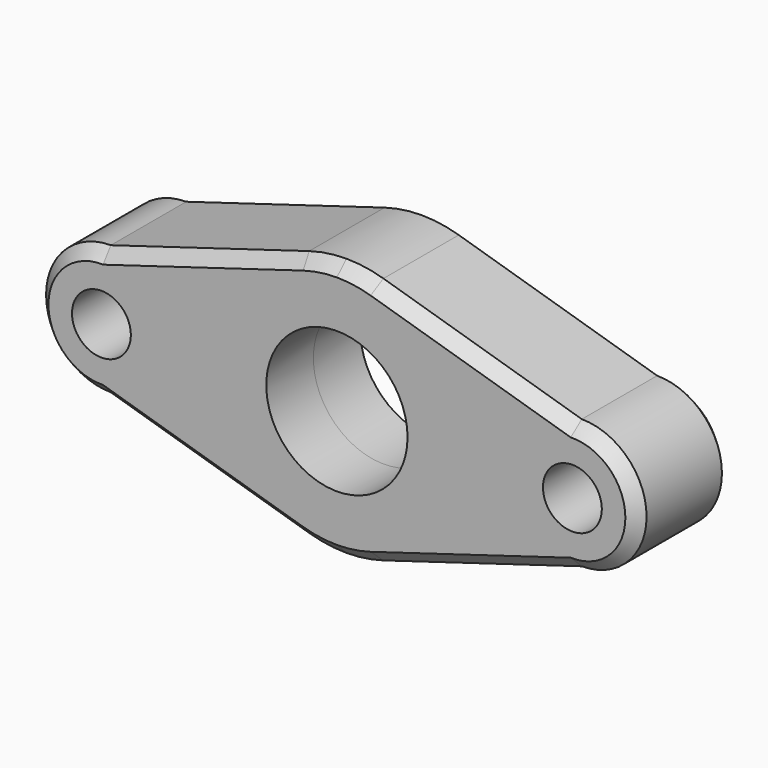
from build123d import *

# Parameters (mm, degrees)
F0_R     = 2.5
F0_R_2   = 6
F1_DEPTH = 5
F2_SIZE  = 1


with BuildPart() as f1:
    # F0 (on Front) → F1 (new body, symmetric)
    with BuildSketch(Plane.XZ):
        with BuildLine():
            ThreePointArc((20, -5.5), (25.5, 0), (20, 5.5))
            Line((20, 5.5), (3.151835, 10.538783))
            ThreePointArc((3.151835, 10.538783), (1.592701, 10.884085), (0, 11))
            ThreePointArc((0, 11), (-1.592701, 10.884085), (-3.151835, 10.538783))
            Line((-3.151835, 10.538783), (-20, 5.5))
            ThreePointArc((-20, 5.5), (-25.5, 0), (-20, -5.5))
            Line((-20, -5.5), (-3.151835, -10.538783))
            ThreePointArc((-3.151835, -10.538783), (-1.592701, -10.884085), (0, -11))
            ThreePointArc((0, -11), (1.592701, -10.884085), (3.151835, -10.538783))
            Line((3.151835, -10.538783), (20, -5.5))
        make_face()
        with Locations((-20, 0)):
            Circle(F0_R, mode=Mode.SUBTRACT)
        Circle(F0_R_2, mode=Mode.SUBTRACT)
        with Locations((20, 0)):
            Circle(F0_R, mode=Mode.SUBTRACT)
    extrude(amount=F1_DEPTH, both=True)

    # F2
    f2_edges = [f1.edges().sort_by_distance(p)[0] for p in [
        (-11.575917, -5, 8.019391),
        (25.5, -5, 0),
        (11.575917, -5, 8.019391),
        (1.592701, -5, 10.884085),
        (-1.592701, -5, 10.884085),
        (11.575917, -5, -8.019391),
        (-25.5, -5, 0),
        (-25.5, 5, 0),
        (25.5, 5, 0),
        (11.575917, 5, 8.019391),
        (-11.575917, 5, 8.019391),
        (-11.575917, 5, -8.019391),
        (11.575917, 5, -8.019391),
    ]]
    chamfer(f2_edges, length=F2_SIZE)


solid = f1.part
